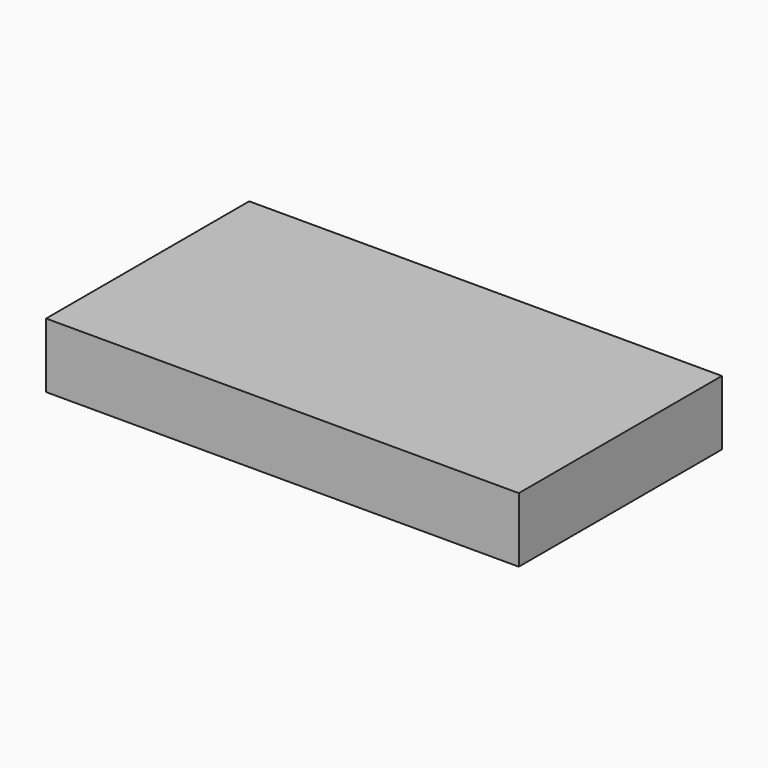
from build123d import *

# Parameters (mm, degrees)
F0_W     = 185.3720098734
F0_H     = 99.5473265648
F1_DEPTH = 25.4
F2_R     = 38.1
F3_DEPTH = 41.656
F3_TAPER = -3


with BuildPart() as f1:
    # F0 (on Top) → F1 (new body)
    with BuildSketch(Plane.XY):
        with Locations((92.6860049367, -49.7736632824)):
            Rectangle(F0_W, F0_H)
    extrude(amount=F1_DEPTH)

    # F2 (on Top) → F3 (cut)
    with BuildSketch(Plane.XY):
        with Locations((71.4801028371, 40.64)):
            Circle(F2_R)
    extrude(amount=F3_DEPTH, taper=F3_TAPER, mode=Mode.SUBTRACT)


solid = f1.part
